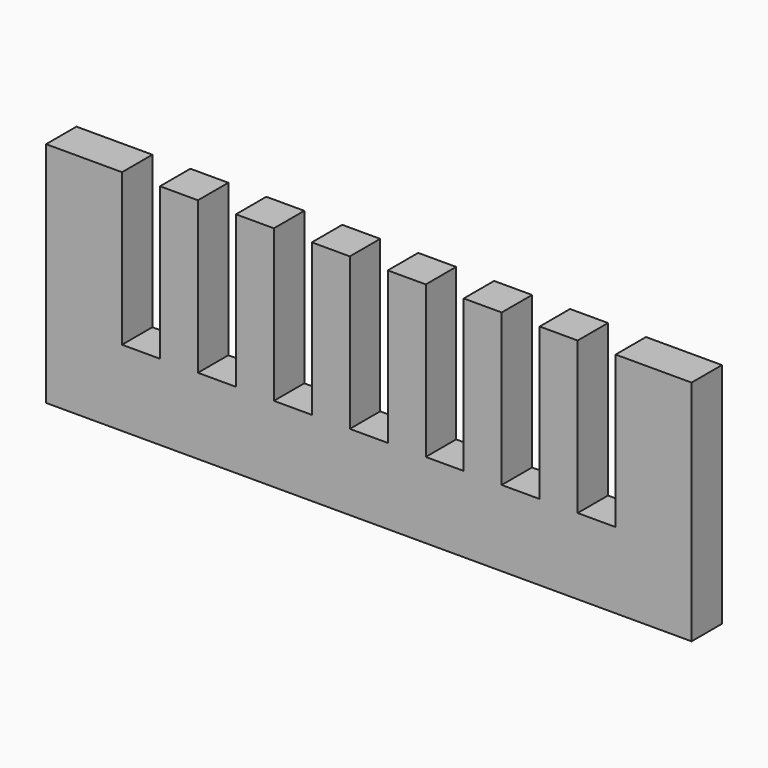
from build123d import *

# Parameters (mm, degrees)
F0_W     = 10
F0_H     = 20
F0_W_2   = 5
F1_DEPTH = 2.5


with BuildPart() as f1:
    # F0 (on Front) → F1 (new body, symmetric)
    with BuildSketch(Plane.XZ):
        Polygon((-42.5, -5), (42.5, -5), (42.5, 5), (32.5, 5), (27.5, 5), (22.5, 5), (17.5, 5), (12.5, 5), (7.5, 5), (2.5, 5), (-2.5, 5), (-7.5, 5), (-12.5, 5), (-17.5, 5), (-22.5, 5), (-27.5, 5), (-32.5, 5), (-42.5, 5), align=None)
        with Locations((37.5, 15)):
            Rectangle(F0_W, F0_H)
        with Locations((-37.5, 15)):
            Rectangle(F0_W, F0_H)
        with Locations((25, 15)):
            Rectangle(F0_W_2, F0_H)
        with Locations((-25, 15)):
            Rectangle(F0_W_2, F0_H)
        with Locations((15, 15)):
            Rectangle(F0_W_2, F0_H)
        with Locations((-15, 15)):
            Rectangle(F0_W_2, F0_H)
        with Locations((5, 15)):
            Rectangle(F0_W_2, F0_H)
        with Locations((-5, 15)):
            Rectangle(F0_W_2, F0_H)
    extrude(amount=F1_DEPTH, both=True)


solid = f1.part
